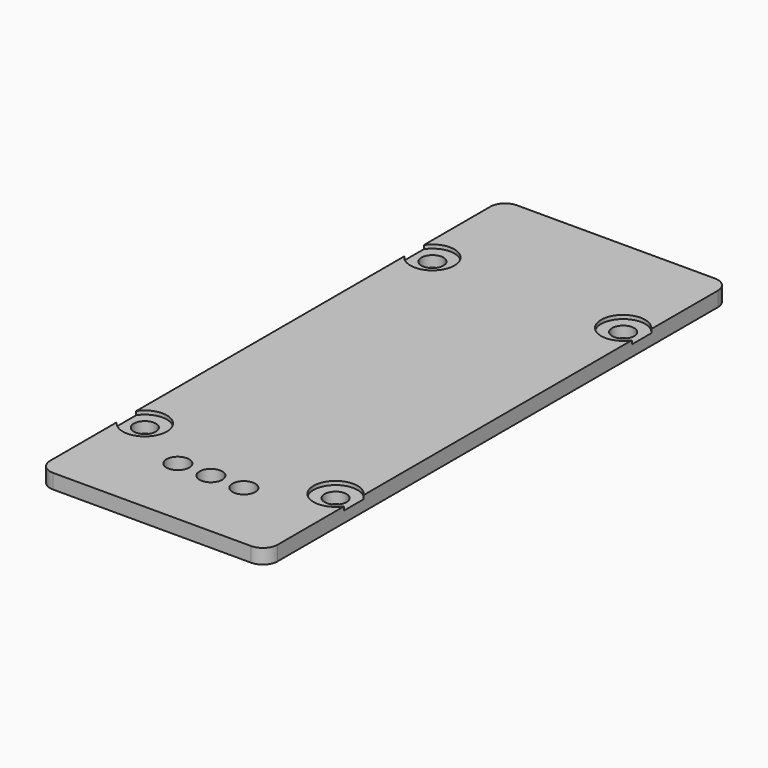
from build123d import *

# Parameters (mm, degrees)
PAD_DEPTH       = 2
SKETCH001_R     = 1.5
POCKET_DEPTH    = 2.001
SKETCH002_R     = 3
POCKET001_DEPTH = 0.5
SKETCH003_R     = 1.55
POCKET002_DEPTH = 2.001
FILLET_R        = 2


with BuildPart() as part:
    # Sketch → Pad (new body)
    with BuildSketch(Plane.XY):
        Polygon((0, 0), (15.5, 0), (15.5, 39.5), (15.5, 79), (0, 79), (-15.5, 79), (-15.5, 39.5), (-15.5, 0), align=None)
    extrude(amount=PAD_DEPTH)

    # Sketch001 (on DatumPlane) → Pocket (cut, through all)
    with BuildSketch(Plane(origin=(0, 0, 2), x_dir=(-1, 0, 0), z_dir=(0, 0, 1))):
        with Locations((-13, -15)):
            Circle(SKETCH001_R)
        with Locations((13, -15)):
            Circle(SKETCH001_R)
        with Locations((-13, -64)):
            Circle(SKETCH001_R)
        with Locations((13, -64)):
            Circle(SKETCH001_R)
    extrude(amount=-POCKET_DEPTH, mode=Mode.SUBTRACT)

    # Sketch002 (on DatumPlane) → Pocket001 (cut)
    with BuildSketch(Plane(origin=(0, 0, 2), x_dir=(-1, 0, 0), z_dir=(0, 0, 1))):
        with Locations((-13, -15)):
            Circle(SKETCH002_R)
        with Locations((13, -15)):
            Circle(SKETCH002_R)
        with Locations((-13, -64)):
            Circle(SKETCH002_R)
        with Locations((13, -64)):
            Circle(SKETCH002_R)
    extrude(amount=-POCKET001_DEPTH, mode=Mode.SUBTRACT)

    # Sketch003 (on DatumPlane) → Pocket002 (cut, through all)
    with BuildSketch(Plane(origin=(0, 0, 2), x_dir=(-1, 0, 0), z_dir=(0, 0, 1))):
        with Locations((0, -10)):
            Circle(SKETCH003_R)
        with Locations((-4.5, -10)):
            Circle(SKETCH003_R)
        with Locations((4.5, -10)):
            Circle(SKETCH003_R)
    extrude(amount=-POCKET002_DEPTH, mode=Mode.SUBTRACT)

    # Fillet
    fillet_edges = [part.edges().sort_by_distance(p)[0] for p in [
        (15.5, 79, 1),
        (-15.5, 79, 1),
        (-15.5, 0, 1),
        (15.5, 0, 1),
    ]]
    fillet(fillet_edges, radius=FILLET_R)


solid = part.part
